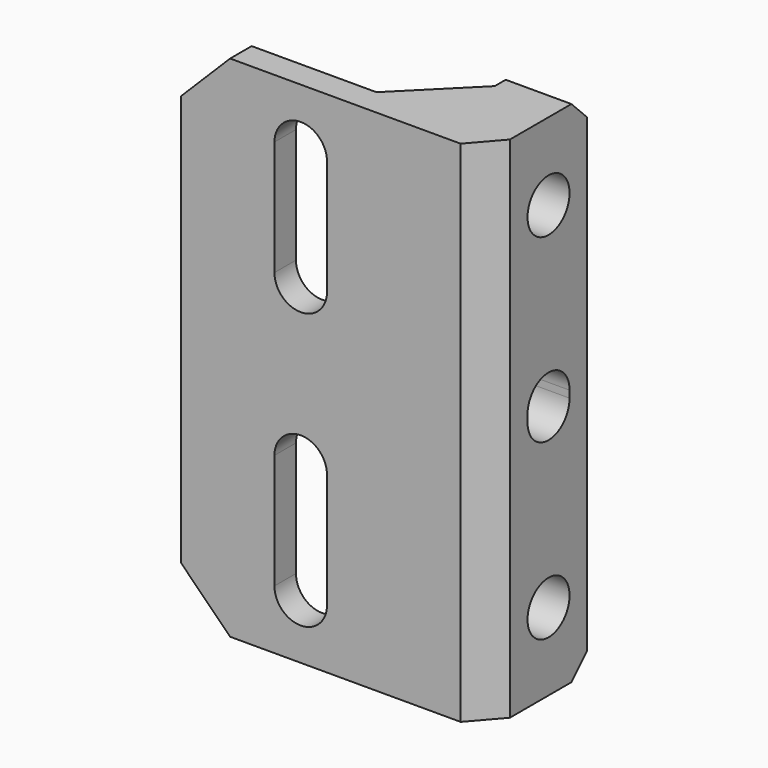
from build123d import *

# Parameters (mm, degrees)
PAD_DEPTH       = 31
CHAMFER_SIZE    = 4
SKETCH001_R     = 1.6
POCKET_DEPTH    = 18.6
SKETCH002_R     = 3.1
POCKET001_DEPTH = 14.6
POCKET002_DEPTH = 9.48
CHAMFER001_SIZE = 3


with BuildPart() as part:
    # Sketch → Pad (new body)
    with BuildSketch(Plane.XY):
        Polygon((-7.3, 1.64), (-7.3, 0), (9.74, 0), (11.3, 1.8), (11.3, 7.68), (9.74, 9.48), (7.3, 9.48), (7.3, 1.64), align=None)
    extrude(amount=PAD_DEPTH)

    # Chamfer
    chamfer_edges = [part.edges().sort_by_distance(p)[0] for p in [
        (7.3, 1.64, 15.5),
    ]]
    chamfer(chamfer_edges, length=CHAMFER_SIZE)

    # Sketch001 (on Face9 of Chamfer) → Pocket (cut)
    with BuildSketch(Plane.YZ.offset(11.3)):
        with Locations((4.74, 26.286)):
            Circle(SKETCH001_R)
        with Locations((4.74, 4.714)):
            Circle(SKETCH001_R)
        with BuildLine():
            ThreePointArc((6.34, 15.714), (4.74, 17.314), (3.14, 15.714))
            Line((3.14, 15.714), (3.14, 15.286))
            ThreePointArc((3.14, 15.286), (4.74, 13.686), (6.34, 15.286))
            Line((6.34, 15.286), (6.34, 15.714))
        make_face()
    extrude(amount=-POCKET_DEPTH, mode=Mode.SUBTRACT)

    # Sketch002 (on Face1 of Pocket) → Pocket001 (cut)
    with BuildSketch(Plane(origin=(7.3, 0, 0), x_dir=(0, -1, 0), z_dir=(-1, 0, 0))):
        with Locations((-4.74, 26.286)):
            Circle(SKETCH002_R)
        with Locations((-4.74, 4.714)):
            Circle(SKETCH002_R)
        with BuildLine():
            ThreePointArc((-1.64, 15.714), (-4.74, 18.814), (-7.84, 15.714))
            Line((-7.84, 15.714), (-7.84, 15.286))
            ThreePointArc((-7.84, 15.286), (-4.74, 12.186), (-1.64, 15.286))
            Line((-1.64, 15.286), (-1.64, 15.714))
        make_face()
    extrude(amount=POCKET001_DEPTH, mode=Mode.SUBTRACT)

    # Sketch003 (on Face33 of Pocket001) → Pocket002 (cut)
    with BuildSketch(Plane.XZ):
        with BuildLine():
            ThreePointArc((1.6, 27.4), (0, 29), (-1.6, 27.4))
            Line((-1.6, 27.4), (-1.6, 20.4))
            ThreePointArc((-1.6, 20.4), (0, 18.8), (1.6, 20.4))
            Line((1.6, 20.4), (1.6, 27.4))
        make_face()
        with BuildLine():
            ThreePointArc((1.6, 10.6), (0, 12.2), (-1.6, 10.6))
            Line((-1.6, 10.6), (-1.6, 3.6))
            ThreePointArc((-1.6, 3.6), (0, 2), (1.6, 3.6))
            Line((1.6, 3.6), (1.6, 10.6))
        make_face()
    extrude(amount=-POCKET002_DEPTH, mode=Mode.SUBTRACT)

    # Chamfer001
    chamfer001_edges = [part.edges().sort_by_distance(p)[0] for p in [
        (8.52, 9.48, 31),
        (8.52, 9.48, 0),
        (-7.3, 0.82, 0),
        (-7.3, 0.82, 31),
    ]]
    chamfer(chamfer001_edges, length=CHAMFER001_SIZE)


solid = part.part
